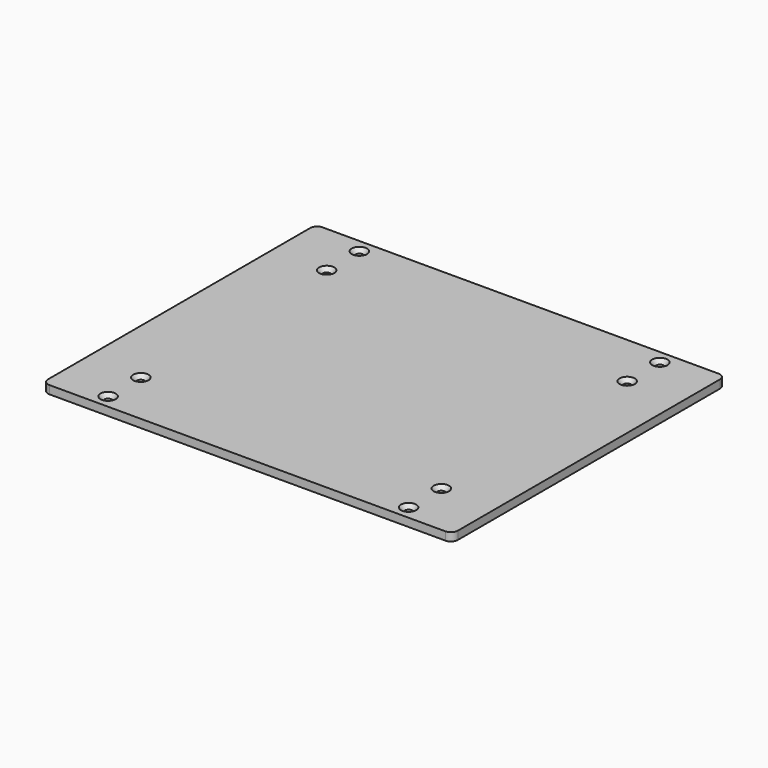
from build123d import *

# Parameters (mm, degrees)
F0_W           = 300
F0_H           = 250
F1_DEPTH       = 6
F2_D           = 5.5
F2_CSINK_D     = 11.2
F2_CSINK_ANGLE = 90
F3_R           = 5


with BuildPart() as f1:
    # F0 (on Top) → F1 (new body)
    with BuildSketch(Plane.XY):
        Rectangle(F0_W, F0_H)
    extrude(amount=-F1_DEPTH)

    # F2 (through all)
    with Locations(Plane.XY):
        with Locations((-110, 115), (-110, 85), (110, 115), (110, 85), (110, -85), (110, -115), (-110, -115), (-110, -85)):
            CounterSinkHole(F2_D / 2, F2_CSINK_D / 2, counter_sink_angle=F2_CSINK_ANGLE)

    # F3
    f3_edges = [f1.edges().sort_by_distance(p)[0] for p in [
        (-150, 125, -3),
        (150, 125, -3),
        (150, -125, -3),
        (-150, -125, -3),
    ]]
    fillet(f3_edges, radius=F3_R)


solid = f1.part
